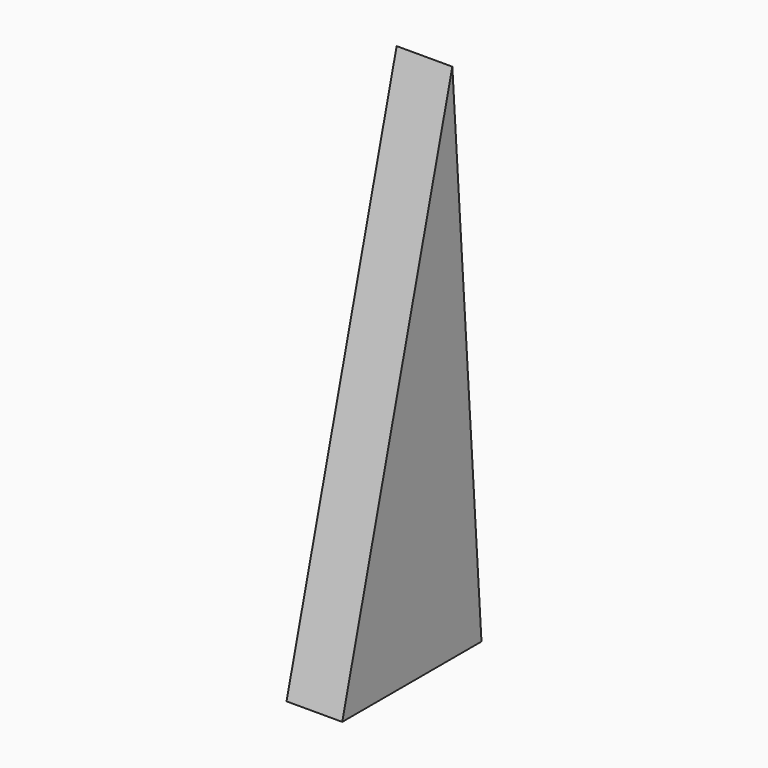
from build123d import *

# Parameters (mm, degrees)
F1_DEPTH = 8


with BuildPart() as f1:
    # F0 (on Right) → F1 (new body, symmetric)
    with BuildSketch(Plane.YZ):
        Polygon((-50, 0), (0, 0), (-10.463471, 149.634608), align=None)
    extrude(amount=F1_DEPTH, both=True)


solid = f1.part
